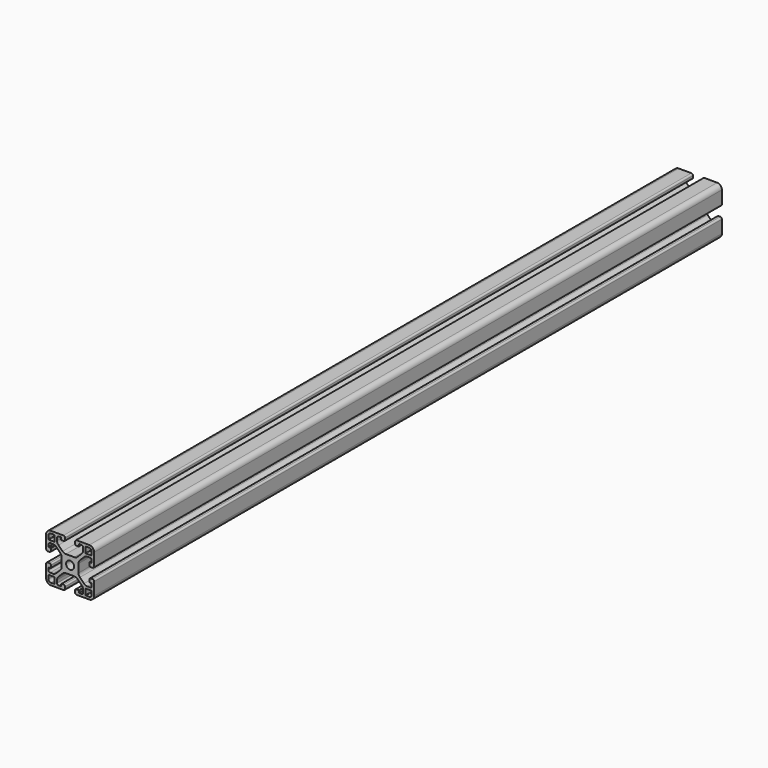
from build123d import *

# Parameters (mm, degrees)
F0_R     = 2.5
F1_DEPTH = 490


with BuildPart() as f1:
    # F0 (on Front) → F1 (new body)
    with BuildSketch(Plane.XZ):
        with BuildLine():
            Line((2.593146, 5.25), (0, 5.25))
            Line((0, 5.25), (-2.593146, 5.25))
            ThreePointArc((-2.593146, 5.25), (-3.741196, 5.478361), (-4.714466, 6.12868))
            Line((-4.714466, 6.12868), (-7.27132, 8.685534))
            ThreePointArc((-7.27132, 8.685534), (-7.921639, 9.658804), (-8.15, 10.806854))
            Line((-8.15, 10.806854), (-8.15, 12.5))
            ThreePointArc((-8.15, 12.5), (-7.857107, 13.207107), (-7.15, 13.5))
            Line((-7.15, 13.5), (-5.9, 13.5))
            ThreePointArc((-5.9, 13.5), (-5.687868, 13.412132), (-5.6, 13.2))
            Line((-5.6, 13.2), (-5.6, 12.3))
            ThreePointArc((-5.6, 12.3), (-5.512132, 12.087868), (-5.3, 12))
            Line((-5.3, 12), (-3.9, 12))
            ThreePointArc((-3.9, 12), (-3.334315, 12.234315), (-3.1, 12.8))
            Line((-3.1, 12.8), (-3.1, 14))
            ThreePointArc((-3.1, 14), (-3.392893, 14.707107), (-4.1, 15))
            Line((-4.1, 15), (-12, 15))
            ThreePointArc((-12, 15), (-14.12132, 14.12132), (-15, 12))
            Line((-15, 12), (-15, 4.1))
            ThreePointArc((-15, 4.1), (-14.707107, 3.392893), (-14, 3.1))
            Line((-14, 3.1), (-12.8, 3.1))
            ThreePointArc((-12.8, 3.1), (-12.234315, 3.334315), (-12, 3.9))
            Line((-12, 3.9), (-12, 5.3))
            ThreePointArc((-12, 5.3), (-12.087868, 5.512132), (-12.3, 5.6))
            Line((-12.3, 5.6), (-13.2, 5.6))
            ThreePointArc((-13.2, 5.6), (-13.412132, 5.687868), (-13.5, 5.9))
            Line((-13.5, 5.9), (-13.5, 7.15))
            ThreePointArc((-13.5, 7.15), (-13.207107, 7.857107), (-12.5, 8.15))
            Line((-12.5, 8.15), (-10.806854, 8.15))
            ThreePointArc((-10.806854, 8.15), (-9.658804, 7.921639), (-8.685534, 7.27132))
            Line((-8.685534, 7.27132), (-6.12868, 4.714466))
            ThreePointArc((-6.12868, 4.714466), (-5.478361, 3.741196), (-5.25, 2.593146))
            Line((-5.25, 2.593146), (-5.25, 0))
            Line((-5.25, 0), (-5.25, -2.593146))
            ThreePointArc((-5.25, -2.593146), (-5.478361, -3.741196), (-6.12868, -4.714466))
            Line((-6.12868, -4.714466), (-8.685534, -7.27132))
            ThreePointArc((-8.685534, -7.27132), (-9.658804, -7.921639), (-10.806854, -8.15))
            Line((-10.806854, -8.15), (-12.5, -8.15))
            ThreePointArc((-12.5, -8.15), (-13.207107, -7.857107), (-13.5, -7.15))
            Line((-13.5, -7.15), (-13.5, -5.9))
            ThreePointArc((-13.5, -5.9), (-13.412132, -5.687868), (-13.2, -5.6))
            Line((-13.2, -5.6), (-12.3, -5.6))
            ThreePointArc((-12.3, -5.6), (-12.087868, -5.512132), (-12, -5.3))
            Line((-12, -5.3), (-12, -3.9))
            ThreePointArc((-12, -3.9), (-12.234315, -3.334315), (-12.8, -3.1))
            Line((-12.8, -3.1), (-14, -3.1))
            ThreePointArc((-14, -3.1), (-14.707107, -3.392893), (-15, -4.1))
            Line((-15, -4.1), (-15, -12))
            ThreePointArc((-15, -12), (-14.12132, -14.12132), (-12, -15))
            Line((-12, -15), (-4.1, -15))
            ThreePointArc((-4.1, -15), (-3.392893, -14.707107), (-3.1, -14))
            Line((-3.1, -14), (-3.1, -12.8))
            ThreePointArc((-3.1, -12.8), (-3.334315, -12.234315), (-3.9, -12))
            Line((-3.9, -12), (-5.3, -12))
            ThreePointArc((-5.3, -12), (-5.512132, -12.087868), (-5.6, -12.3))
            Line((-5.6, -12.3), (-5.6, -13.2))
            ThreePointArc((-5.6, -13.2), (-5.687868, -13.412132), (-5.9, -13.5))
            Line((-5.9, -13.5), (-7.15, -13.5))
            ThreePointArc((-7.15, -13.5), (-7.857107, -13.207107), (-8.15, -12.5))
            Line((-8.15, -12.5), (-8.15, -10.806854))
            ThreePointArc((-8.15, -10.806854), (-7.921639, -9.658804), (-7.27132, -8.685534))
            Line((-7.27132, -8.685534), (-4.714466, -6.12868))
            ThreePointArc((-4.714466, -6.12868), (-3.741196, -5.478361), (-2.593146, -5.25))
            Line((-2.593146, -5.25), (0, -5.25))
            Line((0, -5.25), (2.593146, -5.25))
            ThreePointArc((2.593146, -5.25), (3.741196, -5.478361), (4.714466, -6.12868))
            Line((4.714466, -6.12868), (7.27132, -8.685534))
            ThreePointArc((7.27132, -8.685534), (7.921639, -9.658804), (8.15, -10.806854))
            Line((8.15, -10.806854), (8.15, -12.5))
            ThreePointArc((8.15, -12.5), (7.857107, -13.207107), (7.15, -13.5))
            Line((7.15, -13.5), (5.9, -13.5))
            ThreePointArc((5.9, -13.5), (5.687868, -13.412132), (5.6, -13.2))
            Line((5.6, -13.2), (5.6, -12.3))
            ThreePointArc((5.6, -12.3), (5.512132, -12.087868), (5.3, -12))
            Line((5.3, -12), (3.9, -12))
            ThreePointArc((3.9, -12), (3.334315, -12.234315), (3.1, -12.8))
            Line((3.1, -12.8), (3.1, -14))
            ThreePointArc((3.1, -14), (3.392893, -14.707107), (4.1, -15))
            Line((4.1, -15), (12, -15))
            ThreePointArc((12, -15), (14.12132, -14.12132), (15, -12))
            Line((15, -12), (15, -4.1))
            ThreePointArc((15, -4.1), (14.707107, -3.392893), (14, -3.1))
            Line((14, -3.1), (12.8, -3.1))
            ThreePointArc((12.8, -3.1), (12.234315, -3.334315), (12, -3.9))
            Line((12, -3.9), (12, -5.3))
            ThreePointArc((12, -5.3), (12.087868, -5.512132), (12.3, -5.6))
            Line((12.3, -5.6), (13.2, -5.6))
            ThreePointArc((13.2, -5.6), (13.412132, -5.687868), (13.5, -5.9))
            Line((13.5, -5.9), (13.5, -7.15))
            ThreePointArc((13.5, -7.15), (13.207107, -7.857107), (12.5, -8.15))
            Line((12.5, -8.15), (10.806854, -8.15))
            ThreePointArc((10.806854, -8.15), (9.658804, -7.921639), (8.685534, -7.27132))
            Line((8.685534, -7.27132), (6.12868, -4.714466))
            ThreePointArc((6.12868, -4.714466), (5.478361, -3.741196), (5.25, -2.593146))
            Line((5.25, -2.593146), (5.25, 0))
            Line((5.25, 0), (5.25, 2.593146))
            ThreePointArc((5.25, 2.593146), (5.478361, 3.741196), (6.12868, 4.714466))
            Line((6.12868, 4.714466), (8.685534, 7.27132))
            ThreePointArc((8.685534, 7.27132), (9.658804, 7.921639), (10.806854, 8.15))
            Line((10.806854, 8.15), (12.5, 8.15))
            ThreePointArc((12.5, 8.15), (13.207107, 7.857107), (13.5, 7.15))
            Line((13.5, 7.15), (13.5, 5.9))
            ThreePointArc((13.5, 5.9), (13.412132, 5.687868), (13.2, 5.6))
            Line((13.2, 5.6), (12.3, 5.6))
            ThreePointArc((12.3, 5.6), (12.087868, 5.512132), (12, 5.3))
            Line((12, 5.3), (12, 3.9))
            ThreePointArc((12, 3.9), (12.234315, 3.334315), (12.8, 3.1))
            Line((12.8, 3.1), (14, 3.1))
            ThreePointArc((14, 3.1), (14.707107, 3.392893), (15, 4.1))
            Line((15, 4.1), (15, 12))
            ThreePointArc((15, 12), (14.12132, 14.12132), (12, 15))
            Line((12, 15), (4.1, 15))
            ThreePointArc((4.1, 15), (3.392893, 14.707107), (3.1, 14))
            Line((3.1, 14), (3.1, 12.8))
            ThreePointArc((3.1, 12.8), (3.334315, 12.234315), (3.9, 12))
            Line((3.9, 12), (5.3, 12))
            ThreePointArc((5.3, 12), (5.512132, 12.087868), (5.6, 12.3))
            Line((5.6, 12.3), (5.6, 13.2))
            ThreePointArc((5.6, 13.2), (5.687868, 13.412132), (5.9, 13.5))
            Line((5.9, 13.5), (7.15, 13.5))
            ThreePointArc((7.15, 13.5), (7.857107, 13.207107), (8.15, 12.5))
            Line((8.15, 12.5), (8.15, 10.806854))
            ThreePointArc((8.15, 10.806854), (7.921639, 9.658804), (7.27132, 8.685534))
            Line((7.27132, 8.685534), (4.714466, 6.12868))
            ThreePointArc((4.714466, 6.12868), (3.741196, 5.478361), (2.593146, 5.25))
        make_face()
        with BuildLine():
            ThreePointArc((-9.95, -9.65), (-9.737868, -9.737868), (-9.65, -9.95))
            Line((-9.65, -9.95), (-9.65, -13.2))
            ThreePointArc((-9.65, -13.2), (-9.737868, -13.412132), (-9.95, -13.5))
            Line((-9.95, -13.5), (-12, -13.5))
            ThreePointArc((-12, -13.5), (-13.06066, -13.06066), (-13.5, -12))
            Line((-13.5, -12), (-13.5, -9.95))
            ThreePointArc((-13.5, -9.95), (-13.412132, -9.737868), (-13.2, -9.65))
            Line((-13.2, -9.65), (-9.95, -9.65))
        make_face(mode=Mode.SUBTRACT)
        with BuildLine():
            Line((12, -13.5), (9.95, -13.5))
            ThreePointArc((9.95, -13.5), (9.737868, -13.412132), (9.65, -13.2))
            Line((9.65, -13.2), (9.65, -9.95))
            ThreePointArc((9.65, -9.95), (9.737868, -9.737868), (9.95, -9.65))
            Line((9.95, -9.65), (13.2, -9.65))
            ThreePointArc((13.2, -9.65), (13.412132, -9.737868), (13.5, -9.95))
            Line((13.5, -9.95), (13.5, -12))
            ThreePointArc((13.5, -12), (13.06066, -13.06066), (12, -13.5))
        make_face(mode=Mode.SUBTRACT)
        with BuildLine():
            Line((-9.95, 9.65), (-13.2, 9.65))
            ThreePointArc((-13.2, 9.65), (-13.412132, 9.737868), (-13.5, 9.95))
            Line((-13.5, 9.95), (-13.5, 12))
            ThreePointArc((-13.5, 12), (-13.06066, 13.06066), (-12, 13.5))
            Line((-12, 13.5), (-9.95, 13.5))
            ThreePointArc((-9.95, 13.5), (-9.737868, 13.412132), (-9.65, 13.2))
            Line((-9.65, 13.2), (-9.65, 9.95))
            ThreePointArc((-9.65, 9.95), (-9.737868, 9.737868), (-9.95, 9.65))
        make_face(mode=Mode.SUBTRACT)
        Circle(F0_R, mode=Mode.SUBTRACT)
        with BuildLine():
            ThreePointArc((9.65, 13.2), (9.737868, 13.412132), (9.95, 13.5))
            Line((9.95, 13.5), (12, 13.5))
            ThreePointArc((12, 13.5), (13.06066, 13.06066), (13.5, 12))
            Line((13.5, 12), (13.5, 9.95))
            ThreePointArc((13.5, 9.95), (13.412132, 9.737868), (13.2, 9.65))
            Line((13.2, 9.65), (9.95, 9.65))
            ThreePointArc((9.95, 9.65), (9.737868, 9.737868), (9.65, 9.95))
            Line((9.65, 9.95), (9.65, 13.2))
        make_face(mode=Mode.SUBTRACT)
    extrude(amount=F1_DEPTH)


solid = f1.part
